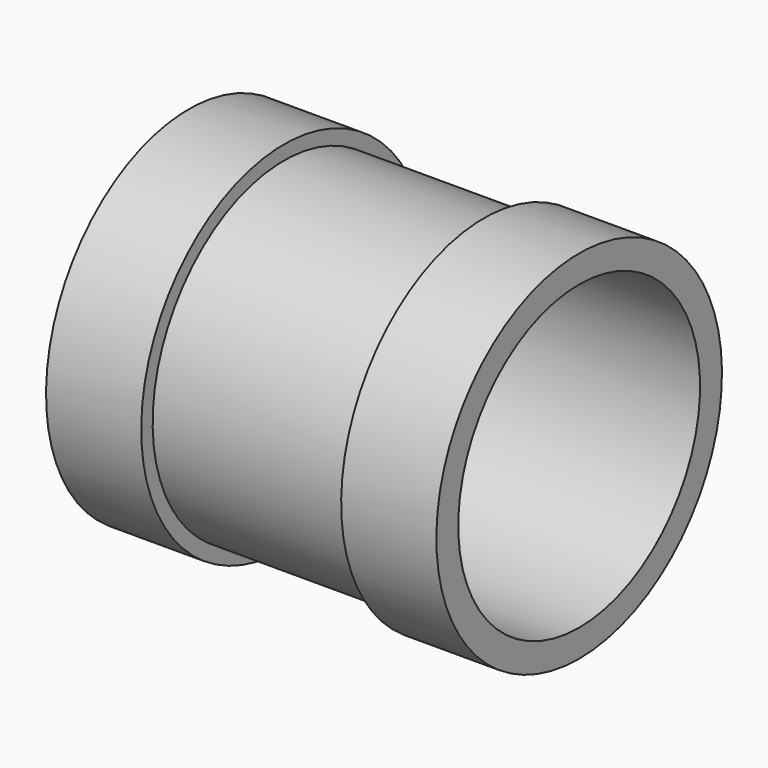
from build123d import *


with BuildPart() as f2:
    # F1 (on Front) → F2 (revolve)
    with BuildSketch(Plane.XZ):
        Polygon((40.9283895493, 0), (39.9283895493, 0), (38.9283895493, 0), (38.9283895493, -5), (40.9283895493, -5), align=None)
    revolve(axis=Axis((41, 0, 0), (1, 0, 0)))


with BuildPart() as f2b:
    # F0 (on Front) → F2, piece 2 (revolve)
    with BuildSketch(Plane.XZ):
        Polygon((41, -31.75), (0, -31.75), (0, -37.5), (20, -37.5), (20, -34.5), (41, -34.5), align=None)
        Polygon((82, -31.75), (41, -31.75), (41, -34.5), (62, -34.5), (62, -37.5), (82, -37.5), align=None)
    revolve(axis=Axis((41, 0, 0), (1, 0, 0)))


solid = Compound([f2.part, f2b.part])
